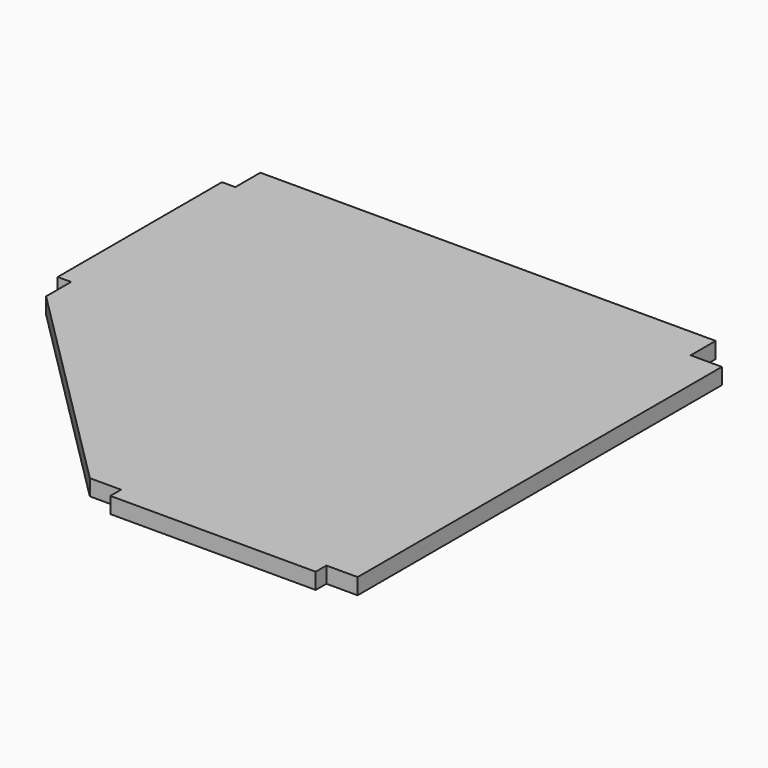
from build123d import *

# Parameters (mm, degrees)
F2_DEPTH = 18
F4_DEPTH = 20
F8_DEPTH = 18


with BuildPart() as f2:
    # F1 (on Top) → F2 (new body)
    with BuildSketch(Plane.XY):
        Polygon((15, 35), (15, 0), (210, 0), (210, 150), (0, 150), (0, 35), align=None)
    extrude(amount=F2_DEPTH)

    # F3 (on face) → F4 (cut)
    with BuildSketch(Plane.XZ.offset(-35)):
        with BuildLine():
            Line((9, 0), (9, 4.25))
            ThreePointArc((9, 4.25), (5.25, 8), (1.5, 4.25))
            Line((1.5, 4.25), (1.5, 0))
            Line((1.5, 0), (9, 0))
        make_face()
    extrude(amount=-F4_DEPTH, mode=Mode.SUBTRACT)

    # F5: F2 across face


with BuildPart() as f2_1:
    add(f2.part)
    add(f2.part.mirror(Plane(origin=(105, 150, 9), x_dir=(-1, 0, 0), z_dir=(0, 1, 0))))

    # F6: F2 across face


with BuildPart() as f2_2:
    add(f2_1.part)
    add(f2_1.part.mirror(Plane(origin=(210, 150, 9), x_dir=(0, 1, 0), z_dir=(1, 0, 0))))


with BuildPart() as f8:
    # F7 (on Top) → F8 (new body)
    with BuildSketch(Plane.XY):
        Polygon((15, 35), (15, 0), (137.5, -122.5), (525, 265), (525, 300), (15, 300), (15, 265), (0, 265), (0, 35), align=None)
    extrude(amount=F8_DEPTH)

    # F9: F8 across face


with BuildPart() as f8_1:
    add(f8.part)
    add(f8.part.mirror(Plane(origin=(331.25, 71.25, 9), x_dir=(0.7071067812, 0.7071067812, 0), z_dir=(0.7071067812, -0.7071067812, 0))))


solid = Compound([f2_2.part, f8_1.part])
